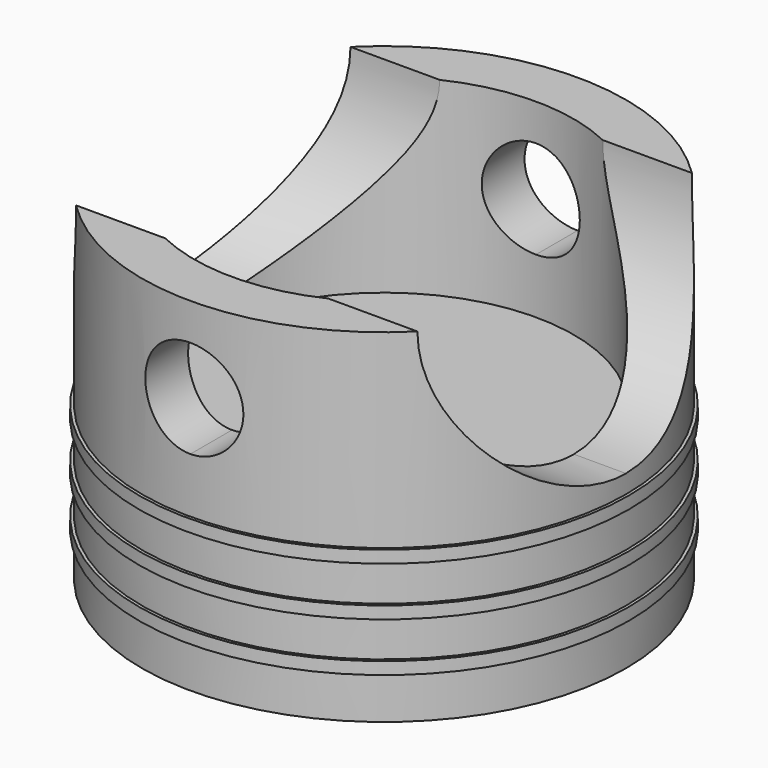
from build123d import *

# Parameters (mm, degrees)
F0_R      = 19.75
F0_R_2    = 15.5
F1_DEPTH  = 28
F2_DEPTH  = 8
F4_DEPTH  = 50
F7_R      = 20
F8_DEPTH  = 0.5
F10_R     = 20
F11_DEPTH = 0.5
F13_R     = 20
F14_DEPTH = 0.5
F16_DEPTH = 50


with BuildPart() as f1:
    # F0 (on Top) → F1 (new body)
    with BuildSketch(Plane.XY):
        Circle(F0_R)
        Circle(F0_R_2, mode=Mode.SUBTRACT)
    extrude(amount=F1_DEPTH)

    # F0 (on Top) → F2 (join)
    with BuildSketch(Plane.XY):
        Circle(F0_R_2)
    extrude(amount=F2_DEPTH)

    # F3 (on Front) → F4 (cut, symmetric)
    with BuildSketch(Plane.XZ):
        with BuildLine():
            ThreePointArc((0, 25), (-4, 21), (0, 17))
            Line((0, 17), (0, 21))
            Line((0, 21), (0, 25))
        make_face()
        with BuildLine():
            Line((0, 21), (0, 17))
            ThreePointArc((0, 17), (2.828427, 18.171573), (4, 21))
            ThreePointArc((4, 21), (2.828427, 23.828427), (0, 25))
            Line((0, 25), (0, 21))
        make_face()
    extrude(amount=F4_DEPTH, both=True, mode=Mode.SUBTRACT)

    # F7 (on plane+point) → F8 (join, symmetric)
    with BuildSketch(Plane.XY.offset(4)):
        Circle(F7_R)
    extrude(amount=F8_DEPTH, both=True)

    # F10 (on plane+point) → F11 (join, symmetric)
    with BuildSketch(Plane.XY.offset(8)):
        Circle(F10_R)
    extrude(amount=F11_DEPTH, both=True)

    # F13 (on plane+point) → F14 (join, symmetric)
    with BuildSketch(Plane.XY.offset(12)):
        Circle(F13_R)
    extrude(amount=F14_DEPTH, both=True)

    # F15 (on Right) → F16 (cut, symmetric)
    with BuildSketch(Plane.YZ):
        with BuildLine():
            ThreePointArc((-14, 28), (-9.899495, 18.100505), (0, 14))
            Line((0, 14), (0, 28))
            Line((0, 28), (-14, 28))
        make_face()
        with BuildLine():
            Line((0, 28), (0, 14))
            ThreePointArc((0, 14), (9.899495, 18.100505), (14, 28))
            Line((14, 28), (0, 28))
        make_face()
    extrude(amount=F16_DEPTH, both=True, mode=Mode.SUBTRACT)


solid = f1.part
